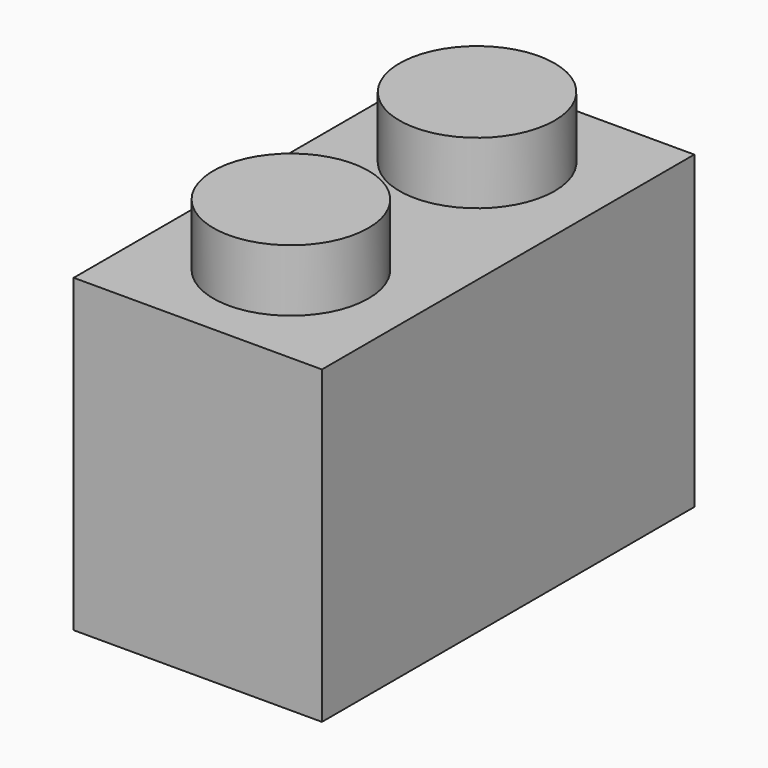
from build123d import *

# Parameters (mm, degrees)
F0_W     = 381
F0_H     = 254
F1_DEPTH = 203.2
F2_R     = 63.5
F3_DEPTH = 50.8
F4_R     = 63.5
F5_DEPTH = 50.8
F6_R     = 12.7
F7_DEPTH = 152.4


with BuildPart() as f1:
    # F0 (on Right) → F1 (new body)
    with BuildSketch(Plane.YZ):
        with Locations((-210.225967, -287.060984)):
            Rectangle(F0_W, F0_H)
    extrude(amount=F1_DEPTH)

    # F4 (on face) → F5 (join)
    with BuildSketch(Plane.XY.offset(-160.060984)):
        with Locations((101.6, -305.475967)):
            Circle(F4_R)
    extrude(amount=F5_DEPTH)

    # F6 (on face) → F7 (join)
    with BuildSketch(Plane(origin=(0, 0, -414.060984), x_dir=(1, 0, 0), z_dir=(0, 0, -1))):
        with Locations((101.6, 210.225967)):
            Circle(F6_R)
    extrude(amount=-F7_DEPTH)


with BuildPart() as f3:
    # F2 (on face) → F3 (new body)
    with BuildSketch(Plane.XY.offset(-160.060984)):
        with Locations((101.6, -114.975967)):
            Circle(F2_R)
    extrude(amount=F3_DEPTH)


solid = Compound([f1.part, f3.part])
